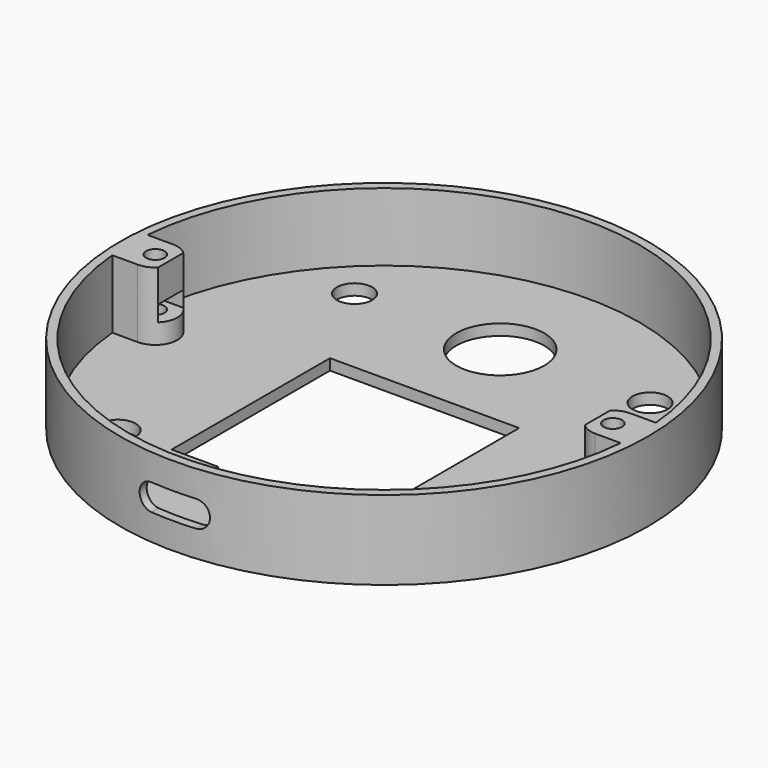
from build123d import *

# Parameters (mm, degrees)
SKETCH_R        = 60
PAD_DEPTH       = 18
SKETCH001_R     = 2.1
POCKET_DEPTH    = 15.5
SKETCH002_W     = 7.2
SKETCH002_H     = 3.6
POCKET001_DEPTH = 56.1
CHAMFER_1_SIZE2 = 3.59
CHAMFER_1_SIZE  = 2.07
CHAMFER_2_SIZE2 = 3.59
CHAMFER_2_SIZE  = 2.07
CHAMFER_3_SIZE2 = 3.59
CHAMFER_3_SIZE  = 2.07
CHAMFER_4_SIZE2 = 3.59
CHAMFER_4_SIZE  = 2.07
SKETCH003_R     = 4
SKETCH003_R_2   = 10
POCKET002_DEPTH = 2.501
POCKET003_DEPTH = 60
SKETCH005_R     = 2.1
PAD001_DEPTH    = 0.2
SKETCH006_W     = 97
SKETCH006_H     = 10
POCKET004_DEPTH = 10.99


with BuildPart() as part:
    # Sketch → Pad (new body)
    with BuildSketch(Plane.XY):
        Circle(SKETCH_R)
    extrude(amount=PAD_DEPTH)

    # Sketch001 (on Face3 of Pad) → Pocket (cut)
    with BuildSketch(Plane.XY.offset(18)):
        with Locations((-52, 0)):
            Circle(SKETCH001_R)
        with Locations((52, 0)):
            Circle(SKETCH001_R)
        with BuildLine():
            ThreePointArc((-57.784081, -5), (0, -58), (57.784081, -5))
            Line((57.784081, -5), (52, -5))
            ThreePointArc((52, 5), (47, 0), (52, -5))
            Line((52, 5), (57.784081, 5))
            ThreePointArc((57.784081, 5), (0, 58), (-57.784081, 5))
            Line((-57.784081, 5), (-52, 5))
            ThreePointArc((-52, -5), (-47, 0), (-52, 5))
            Line((-52, -5), (-57.784081, -5))
        make_face()
    extrude(amount=-POCKET_DEPTH, mode=Mode.SUBTRACT)

    # Sketch002 → Pocket001 (cut, symmetric)
    with BuildSketch(Plane.YZ):
        with Locations((0, 8.8)):
            Rectangle(SKETCH002_W, SKETCH002_H)
    extrude(amount=POCKET001_DEPTH, both=True, mode=Mode.SUBTRACT)

    # Chamfer 1
    chamfer_1_edges = [part.edges().sort_by_distance(p)[0] for p in [
        (-56.1, -3.6, 8.8),
    ]]
    chamfer_1_side = part.faces().sort_by_distance((-52.315065, -3.6, 8.8))[0]
    chamfer(chamfer_1_edges, length=CHAMFER_1_SIZE, length2=CHAMFER_1_SIZE2, reference=chamfer_1_side)

    # Chamfer 2
    chamfer_2_edges = [part.edges().sort_by_distance(p)[0] for p in [
        (-56.1, 3.6, 8.8),
    ]]
    chamfer_2_side = part.faces().sort_by_distance((-52.315065, 3.6, 8.8))[0]
    chamfer(chamfer_2_edges, length=CHAMFER_2_SIZE, length2=CHAMFER_2_SIZE2, reference=chamfer_2_side)

    # Chamfer 3
    chamfer_3_edges = [part.edges().sort_by_distance(p)[0] for p in [
        (56.1, 3.6, 8.8),
    ]]
    chamfer_3_side = part.faces().sort_by_distance((52.315065, 3.6, 8.8))[0]
    chamfer(chamfer_3_edges, length=CHAMFER_3_SIZE, length2=CHAMFER_3_SIZE2, reference=chamfer_3_side)

    # Chamfer 4
    chamfer_4_edges = [part.edges().sort_by_distance(p)[0] for p in [
        (56.1, -3.6, 8.8),
    ]]
    chamfer_4_side = part.faces().sort_by_distance((52.315065, -3.6, 8.8))[0]
    chamfer(chamfer_4_edges, length=CHAMFER_4_SIZE, length2=CHAMFER_4_SIZE2, reference=chamfer_4_side)

    # Sketch003 (on Face12 of Chamfer) → Pocket002 (cut, through all)
    with BuildSketch(Plane.XY.offset(2.5)):
        with Locations((-33.587572, 33.587572)):
            Circle(SKETCH003_R)
        with Locations((33.587572, -33.587572)):
            Circle(SKETCH003_R)
        with Locations((33.587572, 33.587572)):
            Circle(SKETCH003_R)
        with Locations((-33.587572, -33.587572)):
            Circle(SKETCH003_R)
        with Locations((0, 33)):
            Circle(SKETCH003_R_2)
        Polygon((-21.5, 11.5), (21.5, 11.5), (21.5, -33.5), (11, -33.5), (11, -45.5), (-11, -45.5), (-11, -33.5), (-21.5, -33.5), align=None)
    extrude(amount=-POCKET002_DEPTH, mode=Mode.SUBTRACT)

    # Sketch004 (on Face10 of Pocket002) → Pocket003 (cut)
    with BuildSketch(Plane.XZ.offset(5)):
        with BuildLine():
            ThreePointArc((-5, 12), (-8, 9), (-5, 6))
            Line((-5, 6), (5, 6))
            ThreePointArc((5, 6), (8, 9), (5, 12))
            Line((-5, 12), (5, 12))
        make_face()
    extrude(amount=POCKET003_DEPTH, mode=Mode.SUBTRACT)

    # Sketch005 (on Face1 of Pocket003) → Pad001 (join)
    with BuildSketch(Plane(origin=(0, 0, 10.6), x_dir=(1, 0, 0), z_dir=(0, 0, -1))):
        with Locations((-52, 0)):
            Circle(SKETCH005_R)
        with Locations((52, 0)):
            Circle(SKETCH005_R)
    extrude(amount=-PAD001_DEPTH)

    # Sketch006 (on Face11 of Pad001) → Pocket004 (cut)
    with BuildSketch(Plane.XY.offset(18)):
        Rectangle(SKETCH006_W, SKETCH006_H)
    extrude(amount=-POCKET004_DEPTH, mode=Mode.SUBTRACT)


solid = part.part
